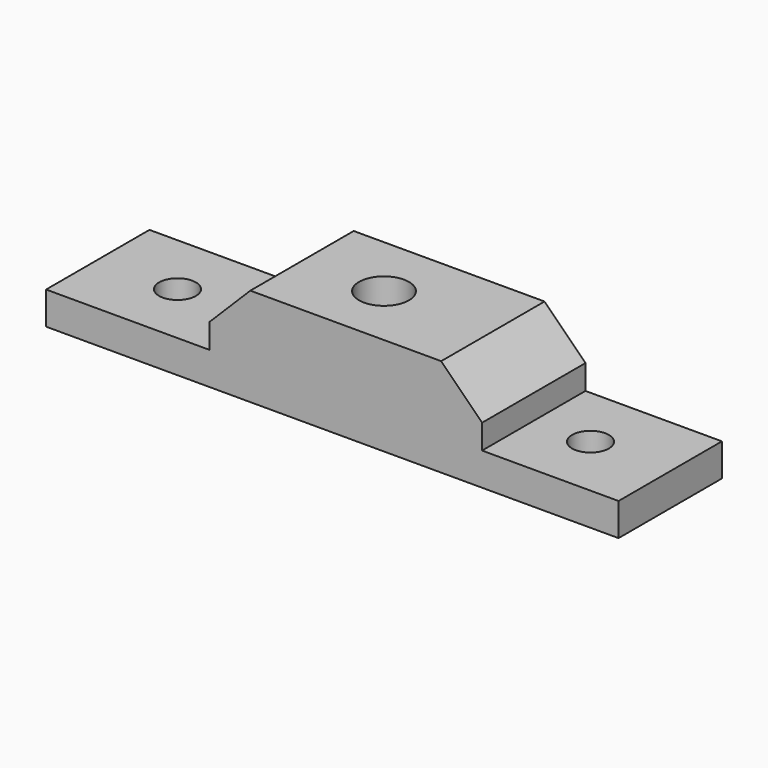
from build123d import *

# Parameters (mm, degrees)
F0_W     = 19.9736606702
F0_H     = 15.8
F0_R     = 2.25
F0_W_2   = 16.687778607
F0_W_3   = 33.3385607228
F0_R_2   = 3.05
F1_DEPTH = 4
F2_DEPTH = 12
F3_SIZE  = 5


with BuildPart() as f1:
    # F0 (on Top) → F1 (new body)
    with BuildSketch(Plane.XY):
        with Locations((-25.0131696649, -7.9)):
            Rectangle(F0_W, F0_H)
        with Locations((-25.25, -7.9)):
            Circle(F0_R, mode=Mode.SUBTRACT)
        with Locations((26.6561106965, -7.9)):
            Rectangle(F0_W_2, F0_H)
        with Locations((25.25, -7.9)):
            Circle(F0_R, mode=Mode.SUBTRACT)
        with Locations((1.6429410316, -7.9)):
            Rectangle(F0_W_3, F0_H)
        with Locations((0, -7.9)):
            Circle(F0_R_2, mode=Mode.SUBTRACT)
    extrude(amount=F1_DEPTH)

    # F0 (on Top) → F2 (join)
    with BuildSketch(Plane.XY):
        with Locations((1.6429410316, -7.9)):
            Rectangle(F0_W_3, F0_H)
        with Locations((0, -7.9)):
            Circle(F0_R_2, mode=Mode.SUBTRACT)
    extrude(amount=F2_DEPTH)

    # F3
    f3_edges = [f1.edges().sort_by_distance(p)[0] for p in [
        (-15.026339, -7.9, 12),
        (18.312221, -7.9, 12),
    ]]
    chamfer(f3_edges, length=F3_SIZE)


solid = f1.part
